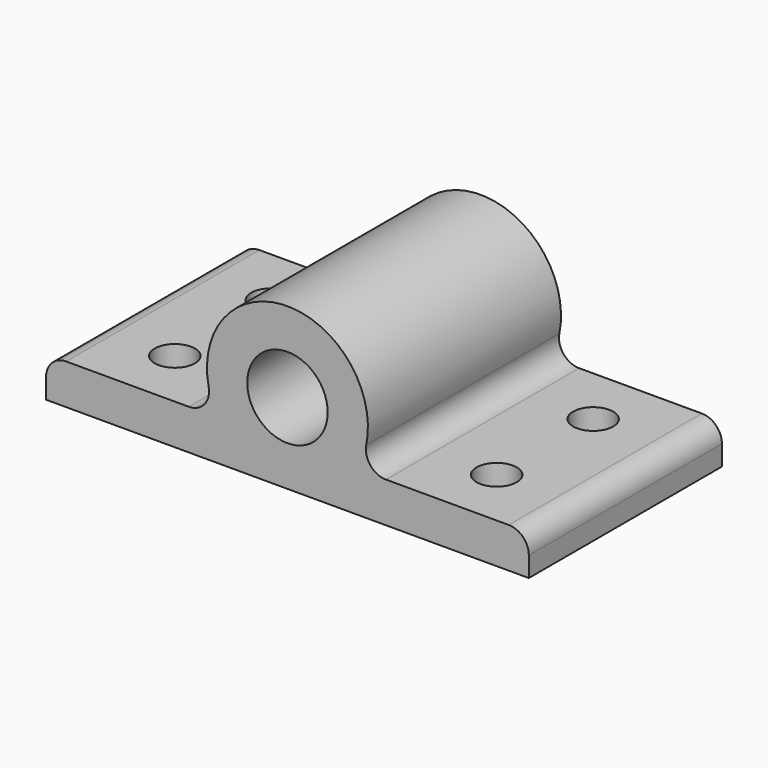
from build123d import *

# Parameters (mm, degrees)
F0_R     = 1
F1_DEPTH = 6
F2_R     = 0.5
F3_DEPTH = 4.001
F4_R     = 0.5


with BuildPart() as f1:
    # F0 (on Front) → F1 (new body)
    with BuildSketch(Plane.XZ):
        with BuildLine():
            Line((-12, 0), (0, 0))
            Line((0, 0), (0, 1))
            Line((0, 1), (-4.267949, 1))
            ThreePointArc((-4.267949, 1), (-6, 4), (-7.732051, 1))
            Line((-7.732051, 1), (-12, 1))
            Line((-12, 1), (-12, 0))
        make_face()
        with Locations((-6, 2)):
            Circle(F0_R, mode=Mode.SUBTRACT)
    extrude(amount=F1_DEPTH)

    # F2 (on face) → F3 (cut, through all)
    with BuildSketch(Plane(origin=(0, 0, 0), x_dir=(1, 0, 0), z_dir=(0, 0, -1))):
        with Locations((-2, 1.5)):
            Circle(F2_R)
        with Locations((-10, 1.5)):
            Circle(F2_R)
        with Locations((-10, 4.5)):
            Circle(F2_R)
        with Locations((-2, 4.5)):
            Circle(F2_R)
    extrude(amount=-F3_DEPTH, mode=Mode.SUBTRACT)

    # F4
    f4_edges = [f1.edges().sort_by_distance(p)[0] for p in [
        (-12, -3, 1),
        (0, -3, 1),
        (-4.267949, -3, 1),
        (-7.732051, -3, 1),
    ]]
    fillet(f4_edges, radius=F4_R)


solid = f1.part
